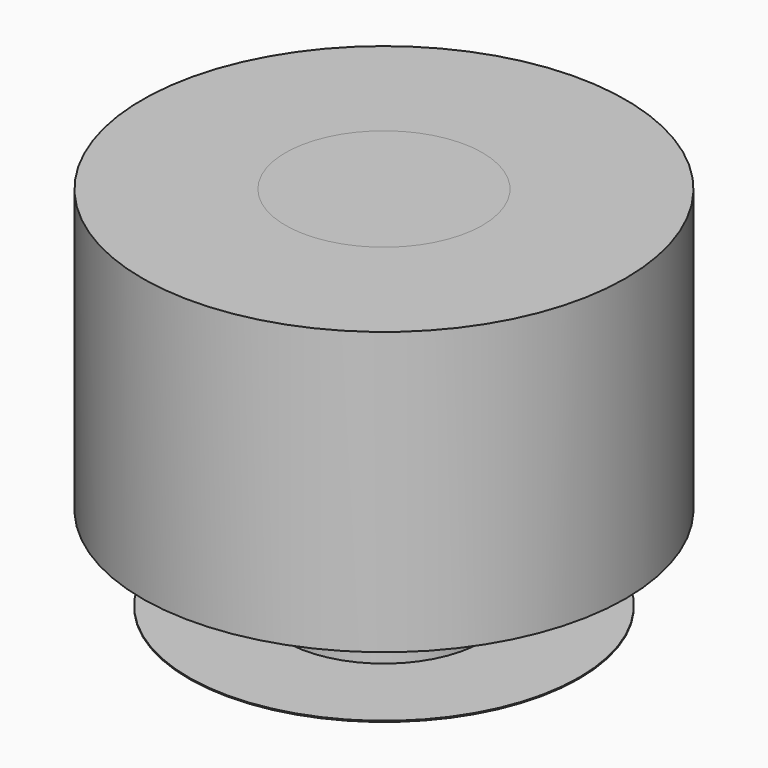
from build123d import *

# Parameters (mm, degrees)
F0_R     = 6.9215
F1_DEPTH = 0.0381
F2_R     = 3.4925
F3_DEPTH = 2.999994
F4_R     = 8.5725
F4_R_2   = 3.4925
F5_DEPTH = 9.99998
F7_R     = 8.5686035001
F7_R_2   = 3.4925
F8_DEPTH = 0.0635
F6_R     = 3.4925
F9_DEPTH = 9.99998


with BuildPart() as f1:
    # F0 (on Top) → F1 (new body)
    with BuildSketch(Plane.XY):
        Circle(F0_R)
    extrude(amount=F1_DEPTH)

    # F2 (on face) → F3 (join)
    with BuildSketch(Plane.XY.offset(0.0381)):
        Circle(F2_R)
    extrude(amount=F3_DEPTH)


with BuildPart() as f5:
    # F4 (on face) → F5 (new body)
    with BuildSketch(Plane.XY.offset(3.038094)):
        Circle(F4_R)
        Circle(F4_R_2, mode=Mode.SUBTRACT)
    extrude(amount=F5_DEPTH)


with BuildPart() as f8:
    # F7 (on face) → F8 (new body)
    with BuildSketch(Plane.XY.offset(3.038094)):
        Circle(F7_R)
        Circle(F7_R_2, mode=Mode.SUBTRACT)
    extrude(amount=F8_DEPTH)


with BuildPart() as f9:
    # F6 (on face) → F9 (new body)
    with BuildSketch(Plane.XY.offset(3.038094)):
        Circle(F6_R)
    extrude(amount=F9_DEPTH)


solid = Compound([f1.part, f5.part, f8.part, f9.part])
